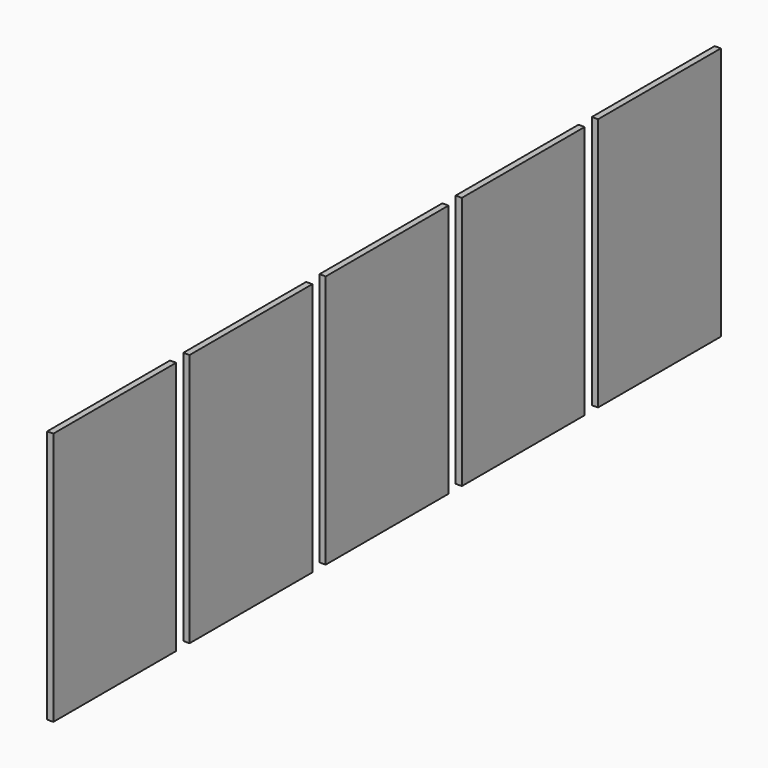
from build123d import *

# Parameters (mm, degrees)
CYLINDER003_R           = 4.5
CYLINDER003_DEPTH       = 10
CYLINDER003_PITCH_ANGLE = 90
CYLINDER002_R           = 4.5
CYLINDER002_DEPTH       = 10
CYLINDER002_PITCH_ANGLE = 90
CYLINDER001_R           = 4.5
CYLINDER001_DEPTH       = 10
CYLINDER001_PITCH_ANGLE = 90
CYLINDER_R              = 4.5
CYLINDER_DEPTH          = 10
CYLINDER_PITCH_ANGLE    = 90
SKETCH002_W             = 970
SKETCH002_H             = 1618
PAD002_DEPTH            = 27
SKETCH001_W             = 922
SKETCH001_H             = 1570
PAD001_DEPTH            = 20
SKETCH_W                = 992
SKETCH_H                = 1640
PAD_DEPTH               = 40
ARRAY_Y_COUNT           = 5
ARRAY_Y_PITCH           = 1100


with BuildPart() as cylinder003:
    # Cylinder003 → Cylinder003 (new body)
    with BuildSketch(Plane.XY):
        Circle(CYLINDER003_R)
    extrude(amount=CYLINDER003_DEPTH)


with BuildPart() as cylinder003_1:
    # Cylinder003 pitch: moved
    add(cylinder003.part.rotate(Axis((0, 0, 0), (0, 1, 0)), CYLINDER003_PITCH_ANGLE))


with BuildPart() as cylinder003_2:
    # Cylinder003 placement: moved
    add(cylinder003_1.part.moved(Location((0, 25, 1220))))


with BuildPart() as fusion001:
    # Cylinder002 → Cylinder002 (new body)
    with BuildSketch(Plane.XY):
        Circle(CYLINDER002_R)
    extrude(amount=CYLINDER002_DEPTH)


with BuildPart() as fusion001_1:
    # Cylinder002 pitch: moved
    add(fusion001.part.rotate(Axis((0, 0, 0), (0, 1, 0)), CYLINDER002_PITCH_ANGLE))


with BuildPart() as fusion001_2:
    # Cylinder002 placement: moved
    add(fusion001_1.part.moved(Location((0, 25, 420))))

    # Fusion001: union Cylinder003
    add(cylinder003_2.part)


with BuildPart() as fusion001_3:
    # Fusion001 placement: moved
    add(fusion001_2.part.moved(Location((0, 942, 0))))


with BuildPart() as cylinder001:
    # Cylinder001 → Cylinder001 (new body)
    with BuildSketch(Plane.XY):
        Circle(CYLINDER001_R)
    extrude(amount=CYLINDER001_DEPTH)


with BuildPart() as cylinder001_1:
    # Cylinder001 pitch: moved
    add(cylinder001.part.rotate(Axis((0, 0, 0), (0, 1, 0)), CYLINDER001_PITCH_ANGLE))


with BuildPart() as cylinder001_2:
    # Cylinder001 placement: moved
    add(cylinder001_1.part.moved(Location((0, 25, 1220))))


with BuildPart() as fusion:
    # Cylinder → Cylinder (new body)
    with BuildSketch(Plane.XY):
        Circle(CYLINDER_R)
    extrude(amount=CYLINDER_DEPTH)


with BuildPart() as fusion_1:
    # Cylinder pitch: moved
    add(fusion.part.rotate(Axis((0, 0, 0), (0, 1, 0)), CYLINDER_PITCH_ANGLE))


with BuildPart() as fusion_2:
    # Cylinder placement: moved
    add(fusion_1.part.moved(Location((0, 25, 420))))

    # Fusion: union Cylinder001
    add(cylinder001_2.part)


with BuildPart() as obj1:
    # Sketch002 → Pad002 (new body)
    with BuildSketch(Plane.YZ.offset(3)):
        with Locations((496, 820)):
            Rectangle(SKETCH002_W, SKETCH002_H)
    extrude(amount=PAD002_DEPTH)


with BuildPart() as obj2:
    # Sketch001 → Pad001 (new body)
    with BuildSketch(Plane.YZ):
        with Locations((496, 820)):
            Rectangle(SKETCH001_W, SKETCH001_H)
    extrude(amount=PAD001_DEPTH)


with BuildPart() as array:
    # Sketch → Pad (new body)
    with BuildSketch(Plane.YZ):
        with Locations((496, 820)):
            Rectangle(SKETCH_W, SKETCH_H)
    extrude(amount=PAD_DEPTH)

    # Cut: cut obj2
    add(obj2.part, mode=Mode.SUBTRACT)

    # Cut001: cut obj1
    add(obj1.part, mode=Mode.SUBTRACT)

    # Cut002: cut Fusion
    add(fusion_2.part, mode=Mode.SUBTRACT)

    # Cut003: cut Fusion001
    add(fusion001_3.part, mode=Mode.SUBTRACT)


with BuildPart() as array_1:
    # Cut003 placement: moved
    add(array.part.moved(Location((0, 0, 1305.59))))

    # Array Y: Array ×5


with BuildPart() as array_2:
    add(array_1.part)
    with Locations(*[(0, i * ARRAY_Y_PITCH, 0) for i in range(1, ARRAY_Y_COUNT)]):
        add(array_1.part)


with BuildPart() as array_3:
    # Array placement: moved
    add(array_2.part.moved(Location((117.5, -90, 251.91))))


solid = array_3.part
